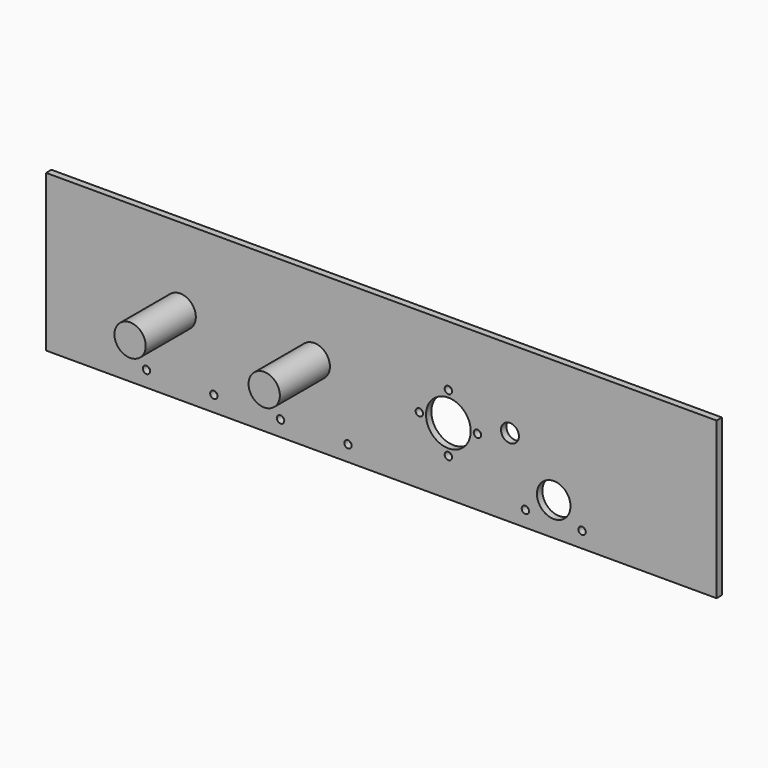
from build123d import *

# Parameters (mm, degrees)
F0_W      = 300
F0_H      = 70
F1_DEPTH  = 3
F3_D      = 3.3
F4_R      = 7
F4_R_2    = 1.65
F5_DEPTH  = 28
F7_D      = 3.3
F8_R      = 10
F9_DEPTH  = 3.001
F10_R     = 4
F10_R_2   = 7.5
F11_DEPTH = 3.001
F13_D     = 3.3


with BuildPart() as f1:
    # F0 (on Front) → F1 (new body)
    with BuildSketch(Plane.XZ):
        with Locations((150, 35)):
            Rectangle(F0_W, F0_H)
    extrude(amount=F1_DEPTH)

    # F3 (through all)
    with Locations(Plane.XZ.offset(3)):
        with Locations((60, 40), (60, 30), (120, 40), (120, 30)):
            Hole(F3_D / 2)

    # F7 (through all)
    with Locations(Plane.XZ.offset(3)):
        with Locations((167, 30), (180, 43), (193, 30), (180, 17)):
            Hole(F7_D / 2)

    # F8 (on face) → F9 (cut, through all)
    with BuildSketch(Plane.XZ.offset(3)):
        with Locations((180, 30)):
            Circle(F8_R)
    extrude(amount=-F9_DEPTH, mode=Mode.SUBTRACT)

    # F10 (on face) → F11 (cut, through all)
    with BuildSketch(Plane.XZ.offset(3)):
        with Locations((207.5499546279, 35)):
            Circle(F10_R)
        with Locations((227.1458725702, 15)):
            Circle(F10_R_2)
    extrude(amount=-F11_DEPTH, mode=Mode.SUBTRACT)

    # F13 (through all)
    with Locations(Plane.XZ.offset(3)):
        with Locations((44.9251865683, 7), (75.0748134317, 7), (104.9251865683, 7), (135.0748134317, 7), (214.4572950297, 7), (239.8344501106, 7)):
            Hole(F13_D / 2)


with BuildPart() as f5:
    # F4 (on face) → F5 (new body)
    with BuildSketch(Plane.XZ.offset(3)):
        with Locations((60, 35)):
            Circle(F4_R)
        with Locations((60, 30)):
            Circle(F4_R_2, mode=Mode.SUBTRACT)
        with Locations((60, 40)):
            Circle(F4_R_2, mode=Mode.SUBTRACT)
        with Locations((60, 40)):
            Circle(F4_R_2)
        with Locations((60, 30)):
            Circle(F4_R_2)
    extrude(amount=F5_DEPTH)


with BuildPart() as f5b:
    # F4 (on face) → F5, piece 2 (new body)
    with BuildSketch(Plane.XZ.offset(3)):
        with Locations((120, 35)):
            Circle(F4_R)
        with Locations((120, 30)):
            Circle(F4_R_2, mode=Mode.SUBTRACT)
        with Locations((120, 40)):
            Circle(F4_R_2, mode=Mode.SUBTRACT)
        with Locations((120, 40)):
            Circle(F4_R_2)
        with Locations((120, 30)):
            Circle(F4_R_2)
    extrude(amount=F5_DEPTH)


solid = Compound([f1.part, f5.part, f5b.part])
